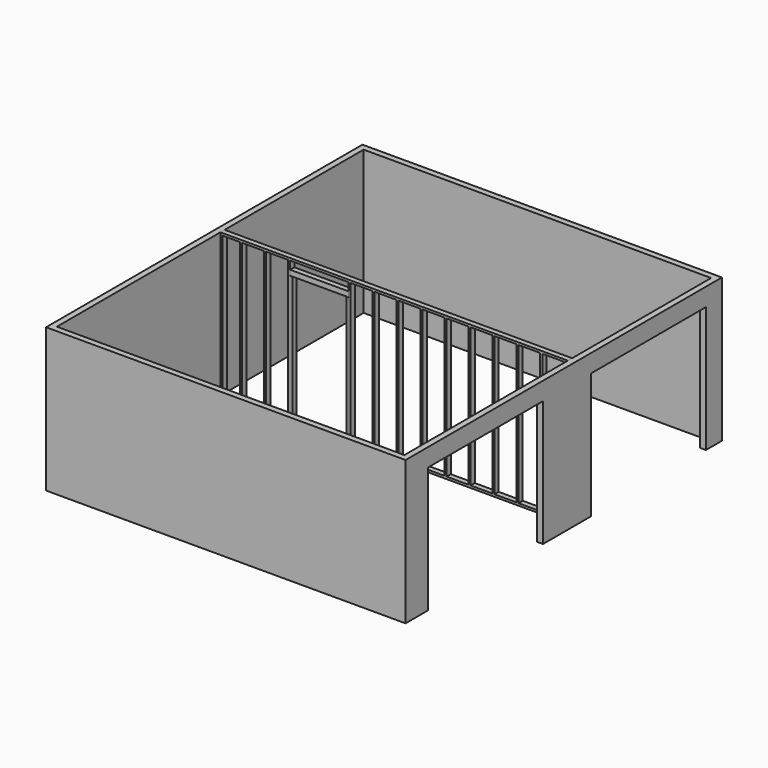
from build123d import *

# Parameters (mm, degrees)
F0_W      = 6096
F0_H      = 6705.6
F0_W_2    = 5892.8
F0_H_2    = 6502.4
F1_DEPTH  = 2438.4
F2_W      = 2438.4
F2_H      = 2133.6
F3_DEPTH  = 101.6
F4_W      = 5892.8
F4_H      = 88.9
F5_DEPTH  = 38.1
F6_W      = 5892.8
F6_H      = 88.9
F7_DEPTH  = 38.1
F8_W      = 914.4
F8_H      = 88.9
F9_DEPTH  = 38.1
F10_W     = 38.1
F10_H     = 88.9
F11_DEPTH = 2133.6
F12_W     = 38.1
F12_H     = 88.9
F13_DEPTH = 2362.2
F14_W     = 88.9
F14_H     = 88.9
F15_DEPTH = 990.6
F16_W     = 38.1
F16_H     = 88.9
F17_DEPTH = 2362.2
F18_W     = 38.1
F18_H     = 88.9
F19_DEPTH = 2362.2


with BuildPart() as f1:
    # F0 (on Top) → F1 (new body)
    with BuildSketch(Plane.XY):
        with Locations((2825.973807, 3205.072267)):
            Rectangle(F0_W, F0_H)
        with Locations((2825.973807, 3205.072267)):
            Rectangle(F0_W_2, F0_H_2, mode=Mode.SUBTRACT)
    extrude(amount=F1_DEPTH)

    # F2 (on face) → F3 (cut, through all)
    with BuildSketch(Plane.YZ.offset(5873.973807)):
        with Locations((4997.367248, 1066.8)):
            Rectangle(F2_W, F2_H)
        with Locations((1545.52792, 1066.8)):
            Rectangle(F2_W, F2_H)
    extrude(amount=-F3_DEPTH, mode=Mode.SUBTRACT)


with BuildPart() as f5:
    # F4 (on face) → F5 (new body)
    with BuildSketch(Plane.XY.offset(2438.4)):
        with Locations((2825.973807, 3465.422267)):
            Rectangle(F4_W, F4_H)
    extrude(amount=-F5_DEPTH)



with BuildPart() as f7:
    # F6 (on face) → F7 (new body)
    with BuildSketch(Plane(origin=(0, 0, 0), x_dir=(1, 0, 0), z_dir=(0, 0, -1))):
        with Locations((2825.973807, -3465.422267)):
            Rectangle(F6_W, F6_H)
    extrude(amount=-F7_DEPTH)

    # F8 (on face) → F9 (cut, through all)
    with BuildSketch(Plane(origin=(0, 0, 0), x_dir=(1, 0, 0), z_dir=(0, 0, -1))):
        with Locations((1555.973807, -3465.422267)):
            Rectangle(F8_W, F8_H)
    extrude(amount=-F9_DEPTH, mode=Mode.SUBTRACT)


with BuildPart() as f11:
    # F10 (on face) → F11 (new body)
    with BuildSketch(Plane.XY.offset(38.1)):
        with Locations((2032.223807, 3465.422267)):
            Rectangle(F10_W, F10_H)
        with Locations((1079.723807, 3465.422267)):
            Rectangle(F10_W, F10_H)
    extrude(amount=F11_DEPTH)


with BuildPart() as f13:
    # F12 (on face) → F13 (new body)
    with BuildSketch(Plane.XY.offset(38.1)):
        with Locations((2070.323807, 3465.422267)):
            Rectangle(F12_W, F12_H)
        with Locations((1041.623807, 3465.422267)):
            Rectangle(F12_W, F12_H)
    extrude(amount=F13_DEPTH)


with BuildPart() as f15:
    # F14 (on face) → F15 (new body, through all)
    with BuildSketch(Plane.YZ.offset(1060.673807)):
        with Locations((3465.422267, 2218.924955)):
            Rectangle(F14_W, F14_H)
    extrude(amount=F15_DEPTH)


with BuildPart() as f5_1:
    add(f5.part)

    add(f7.part)  # F17 merges F7
    # F16 (on face) → F17 (join, through all)
    with BuildSketch(Plane.XY.offset(38.1)):
        with Locations((2476.723807, 3465.422267)):
            Rectangle(F16_W, F16_H)
        with Locations((2883.123807, 3465.422267)):
            Rectangle(F16_W, F16_H)
        with Locations((3289.523807, 3465.422267)):
            Rectangle(F16_W, F16_H)
        with Locations((3695.923807, 3465.422267)):
            Rectangle(F16_W, F16_H)
        with Locations((4102.323807, 3465.422267)):
            Rectangle(F16_W, F16_H)
        with Locations((4508.723807, 3465.422267)):
            Rectangle(F16_W, F16_H)
        with Locations((4915.123807, 3465.422267)):
            Rectangle(F16_W, F16_H)
        with Locations((5321.523807, 3465.422267)):
            Rectangle(F16_W, F16_H)
        with Locations((5727.923807, 3465.422267)):
            Rectangle(F16_W, F16_H)
    extrude(amount=F17_DEPTH)


with BuildPart() as f19:
    # F18 (on face) → F19 (new body, through all)
    with BuildSketch(Plane.XY.offset(38.1)):
        with Locations((635.223807, 3465.422267)):
            Rectangle(F18_W, F18_H)
        with Locations((228.823807, 3465.422267)):
            Rectangle(F18_W, F18_H)
        with Locations((-101.376193, 3465.422267)):
            Rectangle(F18_W, F18_H)
    extrude(amount=F19_DEPTH)


solid = Compound([f1.part, f11.part, f13.part, f15.part, f5_1.part, f19.part])
